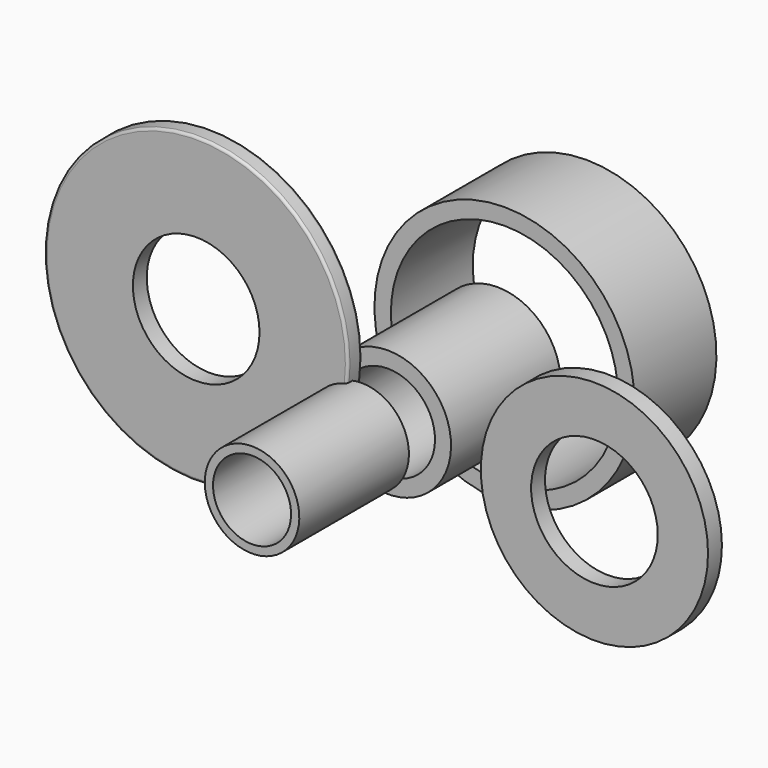
from build123d import *

# Parameters (mm, degrees)
F3_R     = 175
F3_R_2   = 73
F5_DEPTH = 20
F4_R     = 131
F4_R_2   = 73
F6_DEPTH = 20
F0_W     = 158
F0_H     = 9.5
F1_W     = 158
F1_H     = 18.5
F2_W     = 118
F2_H     = 19
F10_R    = 3


with BuildPart() as f5:
    # F3 (on Front) → F5 (new body)
    with BuildSketch(Plane.XZ):
        with Locations((-184.552729, -4.853381)):
            Circle(F3_R)
        with Locations((-184.552729, -4.853381)):
            Circle(F3_R_2, mode=Mode.SUBTRACT)
    extrude(amount=F5_DEPTH)

    # F10
    f10_edges = [f5.edges().sort_by_distance(p)[0] for p in [
        (-359.552729, -20, -4.853381),
        (-359.552729, 0, -4.853381),
    ]]
    fillet(f10_edges, radius=F10_R)


with BuildPart() as f6:
    # F4 (on Front) → F6 (new body)
    with BuildSketch(Plane.XZ):
        with Locations((274.640143, -60.957201)):
            Circle(F4_R)
        with Locations((274.640143, -60.957201)):
            Circle(F4_R_2, mode=Mode.SUBTRACT)
    extrude(amount=F6_DEPTH)


with BuildPart() as f7:
    # F0 (on Right) → F7 (revolve)
    with BuildSketch(Plane.YZ):
        with Locations((-91.216174, -27.710743)):
            Rectangle(F0_W, F0_H)
    revolve(axis=Axis((0, -91.216174, -77.460743), (0, 1, 0)))


with BuildPart() as f8:
    # F1 (on Right) → F8 (revolve)
    with BuildSketch(Plane.YZ):
        with Locations((104.364555, -14.356865)):
            Rectangle(F1_W, F1_H)
    revolve(axis=Axis((0, 104.364555, -78.106865), (0, 1, 0)))


with BuildPart() as f9:
    # F2 (on Right) → F9 (revolve)
    with BuildSketch(Plane.YZ):
        with Locations((252.655372, 62.419197)):
            Rectangle(F2_W, F2_H)
    revolve(axis=Axis((0, 252.655372, -78.080803), (0, 1, 0)))


solid = Compound([f5.part, f6.part, f7.part, f8.part, f9.part])
